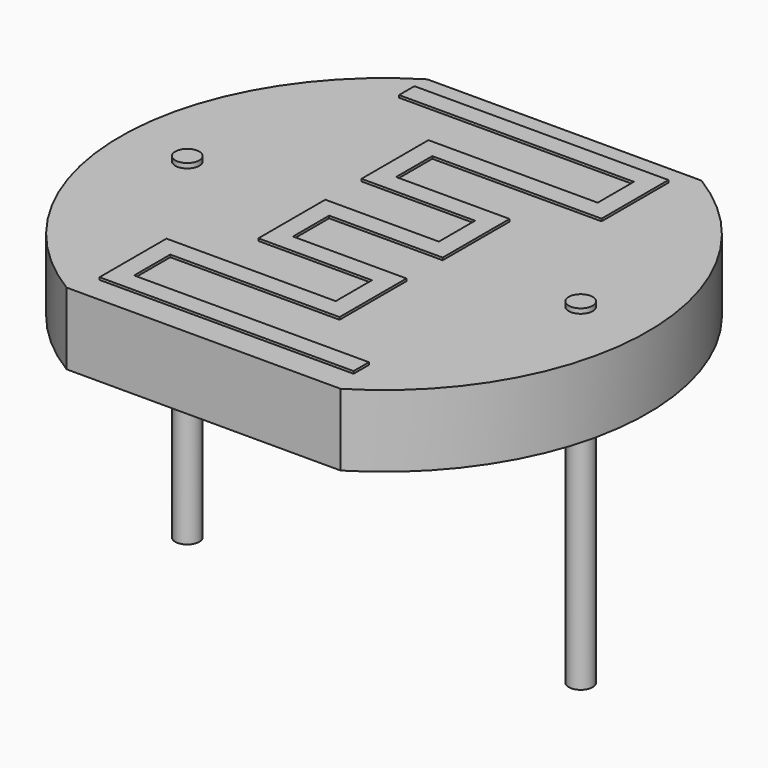
from build123d import *

# Parameters (mm, degrees)
PAD001_DEPTH   = 1.5
SKETCH_R       = 0.25
PAD_DEPTH      = 4
PAD_DEPTH_BACK = 3
PAD002_DEPTH   = 0.05


with BuildPart() as pad001:
    # Sketch001 → Pad001 (new body)
    with BuildSketch(Plane.XY.offset(3.9)):
        with BuildLine():
            ThreePointArc((1.243429, 4.7), (-1.4, 0), (1.243429, -4.7))
            Line((1.243429, -4.7), (6.956571, -4.7))
            ThreePointArc((6.956571, -4.7), (9.6, 0), (6.956571, 4.7))
            Line((1.243429, 4.7), (6.956571, 4.7))
        make_face()
    extrude(amount=-PAD001_DEPTH)


with BuildPart() as pad:
    # Sketch → Pad (new body, two sides)
    with BuildSketch(Plane.XY) as pad_sk:
        Circle(SKETCH_R)
        with Locations((8.2, 0)):
            Circle(SKETCH_R)
    extrude(amount=PAD_DEPTH)
    extrude(pad_sk.sketch, amount=-PAD_DEPTH_BACK)


with BuildPart() as obj1:
    # Sketch002 → Pad002 (new body)
    with BuildSketch(Plane.XY.offset(3.95)):
        Polygon((1.35, 3.83), (6.245, 3.83), (6.245, 2.886667), (2.716667, 2.886667), (2.716667, 2.486667), (2.716667, 1.143333), (3.116667, 1.143333), (5.083333, 1.143333), (5.083333, 0.2), (2.716667, 0.2), (2.716667, -0.2), (2.716667, -1.543333), (3.116667, -1.543333), (5.083333, -1.543333), (5.083333, -2.486667), (1.555, -2.486667), (1.555, -2.886667), (1.555, -4.23), (1.955, -4.23), (6.85, -4.23), (6.85, -3.83), (1.955, -3.83), (1.955, -2.886667), (5.083333, -2.886667), (5.483333, -2.886667), (5.483333, -1.543333), (5.483333, -1.143333), (3.116667, -1.143333), (3.116667, -0.2), (5.083333, -0.2), (5.483333, -0.2), (5.483333, 1.143333), (5.483333, 1.543333), (3.116667, 1.543333), (3.116667, 2.486667), (6.245, 2.486667), (6.645, 2.486667), (6.645, 3.83), (6.645, 4.23), (1.35, 4.23), align=None)
    extrude(amount=PAD002_DEPTH)

    add(pad001.part)
    add(pad.part)


solid = obj1.part
